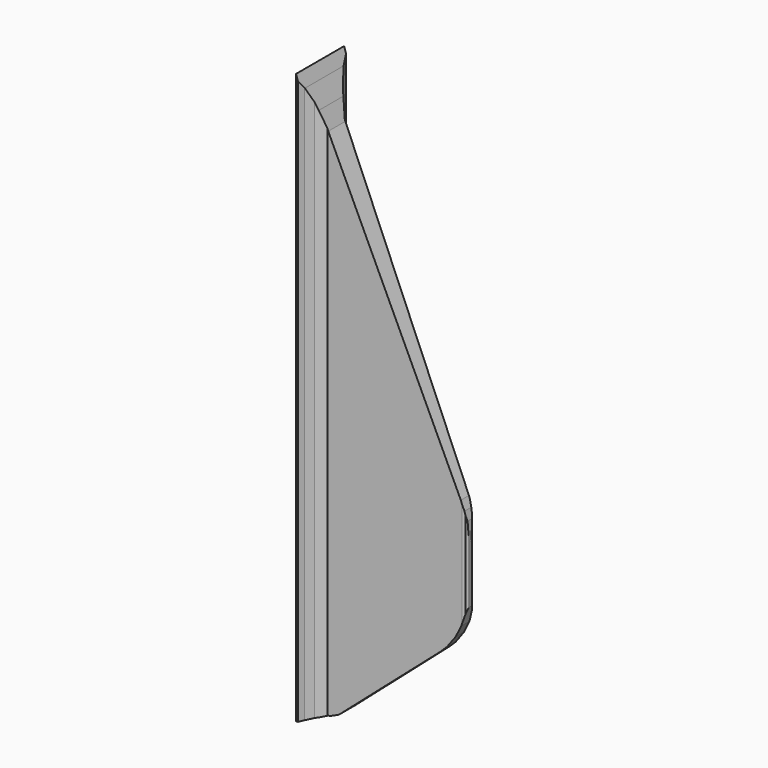
from build123d import *


with BuildPart() as sweep001:
    # Sweep001: sweep along a path in Sketch012
    with BuildLine(Plane.XZ) as sweep001_path:
        Line((5218.905273, -181.283066), (5218.905273, 9949.081055))
    # Sketch011 → Sweep001 (sweep)
    with BuildSketch(Plane.XY):
        Polygon((4426.060059, 511.743744), (4466.980957, 407.14325), (4543.13916, 291.877106), (4666.638672, 178.669174), (6830.749023, 83.835869), (6876.032715, 65.310944), (6898.673828, 34.436073), (6906.771484, 5.640844), (6936.856445, 5.640844), (6936.856445, 613.723572), (4426.060059, 613.723572), align=None)
    sweep(path=sweep001_path.line)


with BuildPart() as fusion:
    # Part__Mirroring: instance of Sweep001
    add(sweep001.part.mirror(Plane(origin=(0, 0, 0), x_dir=(1, 0, 0), z_dir=(0, 1, 0))))

    # Fusion: union Sweep001
    add(sweep001.part)


with BuildPart() as rear_fin_solid:
    # Sweep: sweep along a path in Sketch009
    with BuildLine(Plane.XY.offset(1000)) as sweep_path:
        Line((5367.873535, 500), (5367.873535, -500))
    # Sketch010 → Sweep (sweep)
    with BuildSketch(Plane.XZ):
        Polygon((4399.794922, 9498.125), (4469.072754, 9269.854492), (4581.981445, 8921.831055), (4677.621582, 8614.985352), (6811.989746, 3859.140381), (6862.246582, 3708.371094), (6891.809082, 3560.557373), (6903.634277, 3250.149658), (6903.634277, 2298.231934), (6820.470703, 2016.129272), (6728.82666, 1829.884521), (6586.925781, 1637.727295), (6492.325195, 1543.126709), (4848.772949, 107.96067), (4725.237305, 53.498909), (4596.38916, 18.962172), (4482.151855, 0.365468), (4399.794922, 0.365468), align=None)
    sweep(path=sweep_path.line)

    # Cut: cut Fusion
    add(fusion.part, mode=Mode.SUBTRACT)


solid = rear_fin_solid.part
